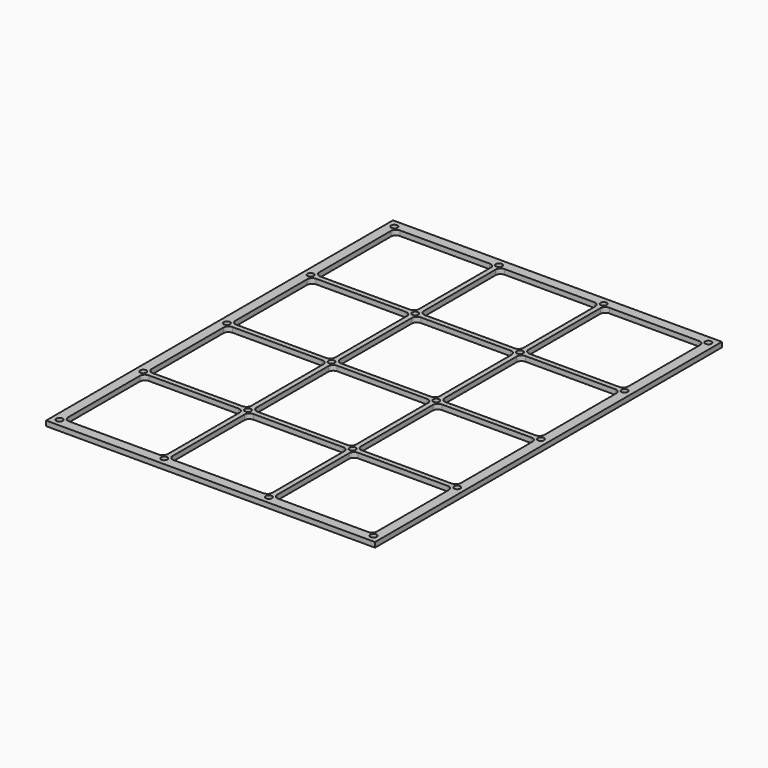
from build123d import *

# Parameters (mm, degrees)
F0_W     = 419.1
F0_H     = 552.45
F0_R     = 3.96875
F1_DEPTH = 6.35


with BuildPart() as f1:
    # F0 (on Top) → F1 (new body)
    with BuildSketch(Plane.XY):
        with Locations((209.55, 276.225)):
            Rectangle(F0_W, F0_H)
        with Locations((9.454559, 9.666916)):
            Circle(F0_R, mode=Mode.SUBTRACT)
        with BuildLine():
            Line((133.35, 12.84139), (19.05, 12.84139))
            ThreePointArc((19.05, 12.84139), (14.559872, 14.701262), (12.7, 19.19139))
            Line((12.7, 19.19139), (12.7, 133.49139))
            ThreePointArc((12.7, 133.49139), (14.559872, 137.981518), (19.05, 139.84139))
            Line((19.05, 139.84139), (133.35, 139.84139))
            ThreePointArc((133.35, 139.84139), (137.840128, 137.981518), (139.7, 133.49139))
            Line((139.7, 133.49139), (139.7, 19.19139))
            ThreePointArc((139.7, 19.19139), (137.840128, 14.701262), (133.35, 12.84139))
        make_face(mode=Mode.SUBTRACT)
        with Locations((142.804305, 9.666916)):
            Circle(F0_R, mode=Mode.SUBTRACT)
        with BuildLine():
            Line((272.979305, 133.420695), (272.979305, 19.120695))
            ThreePointArc((272.979305, 19.120695), (271.119433, 14.630567), (266.629305, 12.770695))
            Line((266.629305, 12.770695), (152.329305, 12.770695))
            ThreePointArc((152.329305, 12.770695), (147.839177, 14.630567), (145.979305, 19.120695))
            Line((145.979305, 19.120695), (145.979305, 133.420695))
            ThreePointArc((145.979305, 133.420695), (147.839177, 137.910823), (152.329305, 139.770695))
            Line((152.329305, 139.770695), (266.629305, 139.770695))
            ThreePointArc((266.629305, 139.770695), (271.119433, 137.910823), (272.979305, 133.420695))
        make_face(mode=Mode.SUBTRACT)
        with Locations((9.454559, 142.945695)):
            Circle(F0_R, mode=Mode.SUBTRACT)
        with Locations((9.454559, 276.224473)):
            Circle(F0_R, mode=Mode.SUBTRACT)
        with BuildLine():
            Line((139.629305, 266.770695), (139.629305, 152.470695))
            ThreePointArc((139.629305, 152.470695), (137.769433, 147.980567), (133.279305, 146.120695))
            Line((133.279305, 146.120695), (18.979305, 146.120695))
            ThreePointArc((18.979305, 146.120695), (14.489177, 147.980567), (12.629305, 152.470695))
            Line((12.629305, 152.470695), (12.629305, 266.770695))
            ThreePointArc((12.629305, 266.770695), (14.489177, 271.260823), (18.979305, 273.120695))
            Line((18.979305, 273.120695), (133.279305, 273.120695))
            ThreePointArc((133.279305, 273.120695), (137.769433, 271.260823), (139.629305, 266.770695))
        make_face(mode=Mode.SUBTRACT)
        with Locations((142.804305, 142.945695)):
            Circle(F0_R, mode=Mode.SUBTRACT)
        with Locations((142.804305, 276.224473)):
            Circle(F0_R, mode=Mode.SUBTRACT)
        with Locations((276.154051, 9.666916)):
            Circle(F0_R, mode=Mode.SUBTRACT)
        with Locations((409.503797, 9.666916)):
            Circle(F0_R, mode=Mode.SUBTRACT)
        with BuildLine():
            Line((406.4, 133.35), (406.4, 19.05))
            ThreePointArc((406.4, 19.05), (404.540128, 14.559872), (400.05, 12.7))
            Line((400.05, 12.7), (285.75, 12.7))
            ThreePointArc((285.75, 12.7), (281.259872, 14.559872), (279.4, 19.05))
            Line((279.4, 19.05), (279.4, 133.35))
            ThreePointArc((279.4, 133.35), (281.259872, 137.840128), (285.75, 139.7))
            Line((285.75, 139.7), (400.05, 139.7))
            ThreePointArc((400.05, 139.7), (404.540128, 137.840128), (406.4, 133.35))
        make_face(mode=Mode.SUBTRACT)
        with Locations((276.154051, 142.945695)):
            Circle(F0_R, mode=Mode.SUBTRACT)
        with BuildLine():
            Line((273.05, 266.84139), (273.05, 152.54139))
            ThreePointArc((273.05, 152.54139), (271.190128, 148.051262), (266.7, 146.19139))
            Line((266.7, 146.19139), (152.4, 146.19139))
            ThreePointArc((152.4, 146.19139), (147.909872, 148.051262), (146.05, 152.54139))
            Line((146.05, 152.54139), (146.05, 266.84139))
            ThreePointArc((146.05, 266.84139), (147.909872, 271.331518), (152.4, 273.19139))
            Line((152.4, 273.19139), (266.7, 273.19139))
            ThreePointArc((266.7, 273.19139), (271.190128, 271.331518), (273.05, 266.84139))
        make_face(mode=Mode.SUBTRACT)
        with Locations((276.154051, 276.224473)):
            Circle(F0_R, mode=Mode.SUBTRACT)
        with Locations((409.503797, 142.945695)):
            Circle(F0_R, mode=Mode.SUBTRACT)
        with BuildLine():
            Line((406.4, 266.7), (406.4, 152.4))
            ThreePointArc((406.4, 152.4), (404.540128, 147.909872), (400.05, 146.05))
            Line((400.05, 146.05), (285.75, 146.05))
            ThreePointArc((285.75, 146.05), (281.259872, 147.909872), (279.4, 152.4))
            Line((279.4, 152.4), (279.4, 266.7))
            ThreePointArc((279.4, 266.7), (281.259872, 271.190128), (285.75, 273.05))
            Line((285.75, 273.05), (400.05, 273.05))
            ThreePointArc((400.05, 273.05), (404.540128, 271.190128), (406.4, 266.7))
        make_face(mode=Mode.SUBTRACT)
        with Locations((409.503797, 276.224473)):
            Circle(F0_R, mode=Mode.SUBTRACT)
        with BuildLine():
            Line((139.7, 400.05), (139.7, 285.75))
            ThreePointArc((139.7, 285.75), (137.840128, 281.259872), (133.35, 279.4))
            Line((133.35, 279.4), (19.05, 279.4))
            ThreePointArc((19.05, 279.4), (14.559872, 281.259872), (12.7, 285.75))
            Line((12.7, 285.75), (12.7, 400.05))
            ThreePointArc((12.7, 400.05), (14.559872, 404.540128), (19.05, 406.4))
            Line((19.05, 406.4), (133.35, 406.4))
            ThreePointArc((133.35, 406.4), (137.840128, 404.540128), (139.7, 400.05))
        make_face(mode=Mode.SUBTRACT)
        with Locations((9.454559, 409.503252)):
            Circle(F0_R, mode=Mode.SUBTRACT)
        with Locations((142.804305, 409.503252)):
            Circle(F0_R, mode=Mode.SUBTRACT)
        with BuildLine():
            Line((139.7, 533.4), (139.7, 419.1))
            ThreePointArc((139.7, 419.1), (137.840128, 414.609872), (133.35, 412.75))
            Line((133.35, 412.75), (19.05, 412.75))
            ThreePointArc((19.05, 412.75), (14.559872, 414.609872), (12.7, 419.1))
            Line((12.7, 419.1), (12.7, 533.4))
            ThreePointArc((12.7, 533.4), (14.559872, 537.890128), (19.05, 539.75))
            Line((19.05, 539.75), (133.35, 539.75))
            ThreePointArc((133.35, 539.75), (137.840128, 537.890128), (139.7, 533.4))
        make_face(mode=Mode.SUBTRACT)
        with Locations((9.454559, 542.78203)):
            Circle(F0_R, mode=Mode.SUBTRACT)
        with Locations((142.804305, 542.78203)):
            Circle(F0_R, mode=Mode.SUBTRACT)
        with BuildLine():
            Line((273.050001, 400.05), (273.050001, 285.75))
            ThreePointArc((273.050001, 285.75), (271.190129, 281.259872), (266.700001, 279.4))
            Line((266.700001, 279.4), (152.400001, 279.4))
            ThreePointArc((152.400001, 279.4), (147.909873, 281.259872), (146.050001, 285.75))
            Line((146.050001, 285.75), (146.050001, 400.05))
            ThreePointArc((146.050001, 400.05), (147.909873, 404.540128), (152.400001, 406.4))
            Line((152.400001, 406.4), (266.700001, 406.4))
            ThreePointArc((266.700001, 406.4), (271.190129, 404.540128), (273.050001, 400.05))
        make_face(mode=Mode.SUBTRACT)
        with Locations((276.154051, 409.503252)):
            Circle(F0_R, mode=Mode.SUBTRACT)
        with BuildLine():
            Line((406.4, 400.05), (406.4, 285.75))
            ThreePointArc((406.4, 285.75), (404.540128, 281.259872), (400.05, 279.4))
            Line((400.05, 279.4), (285.75, 279.4))
            ThreePointArc((285.75, 279.4), (281.259872, 281.259872), (279.4, 285.75))
            Line((279.4, 285.75), (279.4, 400.05))
            ThreePointArc((279.4, 400.05), (281.259872, 404.540128), (285.75, 406.4))
            Line((285.75, 406.4), (400.05, 406.4))
            ThreePointArc((400.05, 406.4), (404.540128, 404.540128), (406.4, 400.05))
        make_face(mode=Mode.SUBTRACT)
        with Locations((409.503797, 409.503252)):
            Circle(F0_R, mode=Mode.SUBTRACT)
        with BuildLine():
            Line((273.05, 533.4), (273.05, 419.1))
            ThreePointArc((273.05, 419.1), (271.190128, 414.609872), (266.7, 412.75))
            Line((266.7, 412.75), (152.4, 412.75))
            ThreePointArc((152.4, 412.75), (147.909872, 414.609872), (146.05, 419.1))
            Line((146.05, 419.1), (146.05, 533.4))
            ThreePointArc((146.05, 533.4), (147.909872, 537.890128), (152.4, 539.75))
            Line((152.4, 539.75), (266.7, 539.75))
            ThreePointArc((266.7, 539.75), (271.190128, 537.890128), (273.05, 533.4))
        make_face(mode=Mode.SUBTRACT)
        with Locations((276.154051, 542.78203)):
            Circle(F0_R, mode=Mode.SUBTRACT)
        with BuildLine():
            Line((406.4, 533.4), (406.4, 419.1))
            ThreePointArc((406.4, 419.1), (404.540128, 414.609872), (400.05, 412.75))
            Line((400.05, 412.75), (285.75, 412.75))
            ThreePointArc((285.75, 412.75), (281.259872, 414.609872), (279.4, 419.1))
            Line((279.4, 419.1), (279.4, 533.4))
            ThreePointArc((279.4, 533.4), (281.259872, 537.890128), (285.75, 539.75))
            Line((285.75, 539.75), (400.05, 539.75))
            ThreePointArc((400.05, 539.75), (404.540128, 537.890128), (406.4, 533.4))
        make_face(mode=Mode.SUBTRACT)
        with Locations((409.503797, 542.78203)):
            Circle(F0_R, mode=Mode.SUBTRACT)
    extrude(amount=F1_DEPTH)


solid = f1.part
